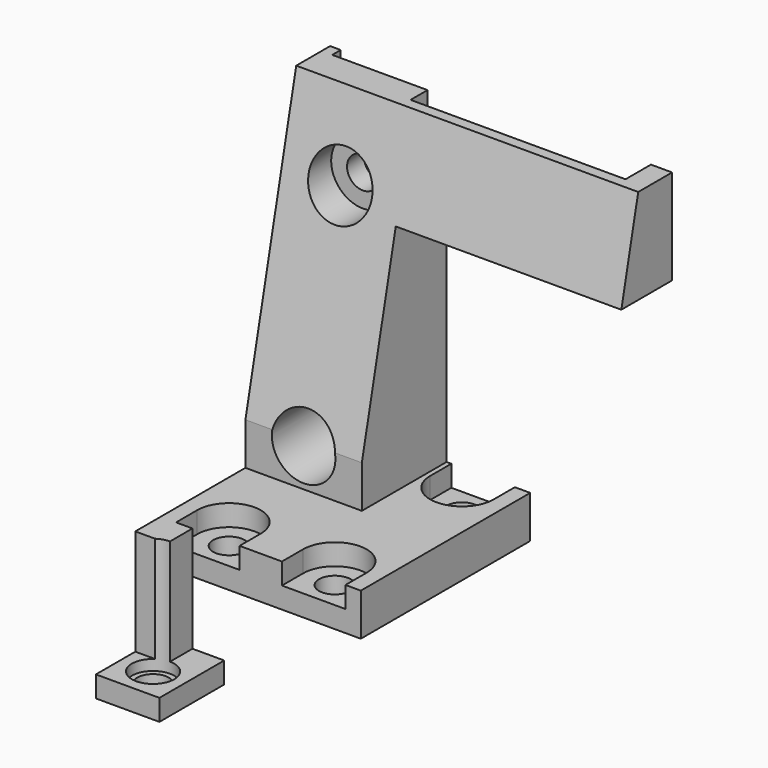
from build123d import *

# Parameters (mm, degrees)
SKETCH_W        = 18.9
SKETCH_H        = 20
SKETCH_R        = 1.5
PAD_DEPTH       = 8
SKETCH001_W     = 3
SKETCH001_H     = 16
PAD001_DEPTH    = 3
SKETCH002_W     = 6
SKETCH002_H     = 7.65
SKETCH002_R     = 1.5
PAD002_DEPTH    = 2
SKETCH003_R     = 2
POCKET_DEPTH    = 15
PAD003_DEPTH    = 10
SKETCH005_R     = 1.5
POCKET001_DEPTH = 10
SKETCH006_W     = 9
SKETCH006_H     = 35
POCKET002_DEPTH = 1
POCKET003_DEPTH = 3
SKETCH008_W     = 1
SKETCH008_H     = 6.05
PAD004_DEPTH    = 2.5
POCKET004_DEPTH = 32.301
POCKET005_DEPTH = 32.301
POCKET014_DEPTH = 6
POCKET015_DEPTH = 4
SKETCH023_R     = 3
POCKET017_DEPTH = 8


with BuildPart() as part:
    # Sketch (on Face6 of Binder) → Pad (new body)
    with BuildSketch(Plane.XY.offset(8)):
        with Locations((14.45, 10)):
            Rectangle(SKETCH_W, SKETCH_H)
        with Locations((19.45, 17.5)):
            Circle(SKETCH_R, mode=Mode.SUBTRACT)
        with Locations((9.45, 2.5)):
            Circle(SKETCH_R, mode=Mode.SUBTRACT)
        with Locations((19.45, 2.5)):
            Circle(SKETCH_R, mode=Mode.SUBTRACT)
    extrude(amount=PAD_DEPTH)

    # Sketch001 (on Face3 of Pad) → Pad001 (join)
    with BuildSketch(Plane.XZ):
        with Locations((6.5, 8)):
            Rectangle(SKETCH001_W, SKETCH001_H)
    extrude(amount=PAD001_DEPTH)

    # Sketch002 (on Face13 of Pad001) → Pad002 (join)
    with BuildSketch(Plane(origin=(0, 0, 0), x_dir=(1, 0, 0), z_dir=(0, 0, -1))):
        with Locations((8, 3.825)):
            Rectangle(SKETCH002_W, SKETCH002_H)
        with Locations((8, 4.65)):
            Circle(SKETCH002_R, mode=Mode.SUBTRACT)
    extrude(amount=-PAD002_DEPTH)

    # Sketch003 (on Face12 of Pad002) → Pocket (cut)
    with BuildSketch(Plane.XY.offset(16)):
        with Locations((8, -4.65)):
            Circle(SKETCH003_R)
    extrude(amount=-POCKET_DEPTH, mode=Mode.SUBTRACT)

    # Sketch004 (on Face1 of Pocket) → Pad003 (join)
    with BuildSketch(Plane(origin=(0, 20, 0), x_dir=(-1, 0, 0), z_dir=(0, 1, 0))):
        Polygon((-5, 16), (-16, 16), (-16, 34.02), (-37.3, 34.02), (-37.3, 43), (-16, 43), (-5, 43), align=None)
    extrude(amount=-PAD003_DEPTH)

    # Sketch005 (on Face5 of Pad003) → Pocket001 (cut)
    with BuildSketch(Plane(origin=(0, 20, 0), x_dir=(-1, 0, 0), z_dir=(0, 1, 0))):
        with Locations((-10.5, 15.5)):
            Circle(SKETCH005_R)
        with Locations((-10.5, 35.5)):
            Circle(SKETCH005_R)
    extrude(amount=-POCKET001_DEPTH, mode=Mode.SUBTRACT)

    # Sketch006 (on Face5 of Pocket001) → Pocket002 (cut)
    with BuildSketch(Plane(origin=(0, 20, 0), x_dir=(-1, 0, 0), z_dir=(0, 1, 0))):
        with Locations((-10.5, 25.5)):
            Rectangle(SKETCH006_W, SKETCH006_H)
    extrude(amount=-POCKET002_DEPTH, mode=Mode.SUBTRACT)

    # Sketch007 (on Face21 of Pocket002) → Pocket003 (cut)
    with BuildSketch(Plane(origin=(0, 20, 0), x_dir=(-1, 0, 0), z_dir=(0, 1, 0))):
        Polygon((-15, 43), (-35.3, 43), (-35.3, 36.02), (-30.23, 36.02), (-30.23, 34.02), (-20.07, 34.02), (-20.07, 36.02), (-15, 36.02), align=None)
    extrude(amount=-POCKET003_DEPTH, mode=Mode.SUBTRACT)

    # Sketch008 (on Face4 of Pocket003) → Pad004 (join)
    with BuildSketch(Plane(origin=(0, 20, 0), x_dir=(-1, 0, 0), z_dir=(0, 1, 0))):
        with Locations((-5.5, 19.025)):
            Rectangle(SKETCH008_W, SKETCH008_H)
    extrude(amount=PAD004_DEPTH)

    # Sketch009 (on Face18 of Pad004) → Pocket004 (cut, through all)
    with BuildSketch(Plane(origin=(5, 0, 0), x_dir=(0, -1, 0), z_dir=(-1, 0, 0))):
        Polygon((-22.5, 20.05), (-20, 16), (-22.5, 16), align=None)
    extrude(amount=-POCKET004_DEPTH, mode=Mode.SUBTRACT)

    # Sketch010 (on Face22 of Pocket004) → Pocket005 (cut, through all)
    with BuildSketch(Plane(origin=(5, 0, 0), x_dir=(0, -1, 0), z_dir=(-1, 0, 0))):
        Polygon((-10, 16), (-16, 43), (-10, 43), align=None)
    extrude(amount=-POCKET005_DEPTH, mode=Mode.SUBTRACT)

    # Sketch020 (on Face21 of Pocket005) → Pocket014 (cut)
    with BuildSketch(Plane.XY.offset(16)):
        with BuildLine():
            ThreePointArc((16.45, 17.499996), (19.45, 14.5), (22.45, 17.499996))
            Line((22.45, 17.499996), (22.45, 20))
            Line((22.45, 20), (16.45, 20))
            Line((16.45, 20), (16.45, 17.499996))
        make_face()
        with BuildLine():
            ThreePointArc((22.45, 2.5), (19.45, 5.5), (16.45, 2.5))
            Line((16.45, 0), (16.45, 2.5))
            Line((22.45, 0), (16.45, 0))
            Line((22.45, 2.5), (22.45, 0))
        make_face()
        with BuildLine():
            ThreePointArc((12.45, 2.5), (9.45, 5.5), (6.45, 2.5))
            Line((6.45, 2.5), (6.45, 0))
            Line((6.45, 0), (12.45, 0))
            Line((12.45, 0), (12.45, 2.5))
        make_face()
    extrude(amount=-POCKET014_DEPTH, mode=Mode.SUBTRACT)

    # Sketch021 (on Face21 of Pocket014) → Pocket015 (cut)
    with BuildSketch(Plane.XY.offset(16)):
        Polygon((23.9, 0), (23.9, 10), (23.9, 20), (16, 20), (16, 10), (5, 10), (5, 0), (5, -3), (8, -3), (8, 0), align=None)
    extrude(amount=-POCKET015_DEPTH, mode=Mode.SUBTRACT)

    # Sketch023 (on Face6 of Pocket015) → Pocket017 (cut)
    with BuildSketch(Plane(origin=(0, 9, 0), x_dir=(-1, 0, 0), z_dir=(0, 1, 0))):
        with Locations((-10.5, 15.5)):
            Circle(SKETCH023_R)
        with Locations((-10.5, 35.5)):
            Circle(SKETCH023_R)
    extrude(amount=POCKET017_DEPTH, mode=Mode.SUBTRACT)


solid = part.part
